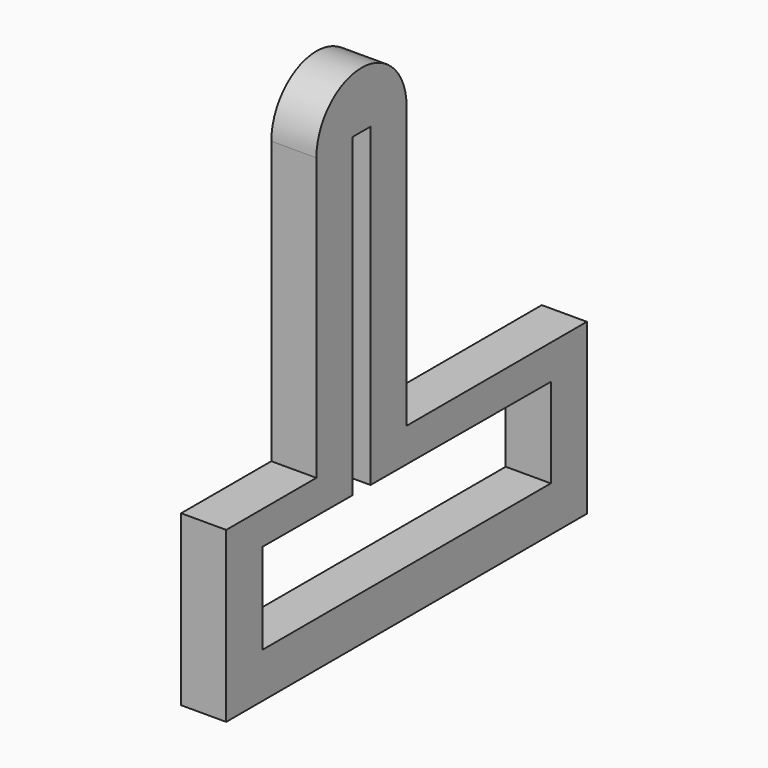
from build123d import *

# Parameters (mm, degrees)
F1_DEPTH = 5.08


with BuildPart() as f1:
    # F0 (on Right) → F1 (new body)
    with BuildSketch(Plane.YZ):
        Polygon((-25.4, 0), (25.4, 0), (25.4, 19.05), (0, 19.05), (0, 50.8), (-5.08, 50.8), (-5.08, 19.05), (-5.08, 15.243424), (20.32, 15.154761), (20.32, 5.08), (-20.32, 5.08), (-20.32, 15.296622), (-7.62, 15.25229), (-7.62, 19.05), (-7.62, 50.8), (-12.7, 50.8), (-12.7, 19.05), (-25.4, 19.05), align=None)
        Polygon((-25.4, 0), (25.4, 0), (25.4, 19.05), (0, 19.05), (0, 50.8), (-5.08, 50.8), (-5.08, 19.05), (-5.08, 15.243424), (20.32, 15.154761), (20.32, 5.08), (-20.32, 5.08), (-20.32, 15.296622), (-7.62, 15.25229), (-7.62, 19.05), (-7.62, 50.8), (-12.7, 50.8), (-12.7, 19.05), (-25.4, 19.05), align=None)
        Polygon((-25.4, 0), (25.4, 0), (25.4, 19.05), (0, 19.05), (0, 50.8), (-5.08, 50.8), (-5.08, 19.05), (-5.08, 15.243424), (20.32, 15.154761), (20.32, 5.08), (-20.32, 5.08), (-20.32, 15.296622), (-7.62, 15.25229), (-7.62, 19.05), (-7.62, 50.8), (-12.7, 50.8), (-12.7, 19.05), (-25.4, 19.05), align=None)
        with BuildLine():
            Line((-5.08, 50.8), (0, 50.8))
            ThreePointArc((0, 50.8), (-6.35, 57.15), (-12.7, 50.8))
            Line((-12.7, 50.8), (-7.62, 50.8))
            Line((-7.62, 50.8), (-5.08, 50.8))
        make_face()
    extrude(amount=F1_DEPTH)


solid = f1.part
